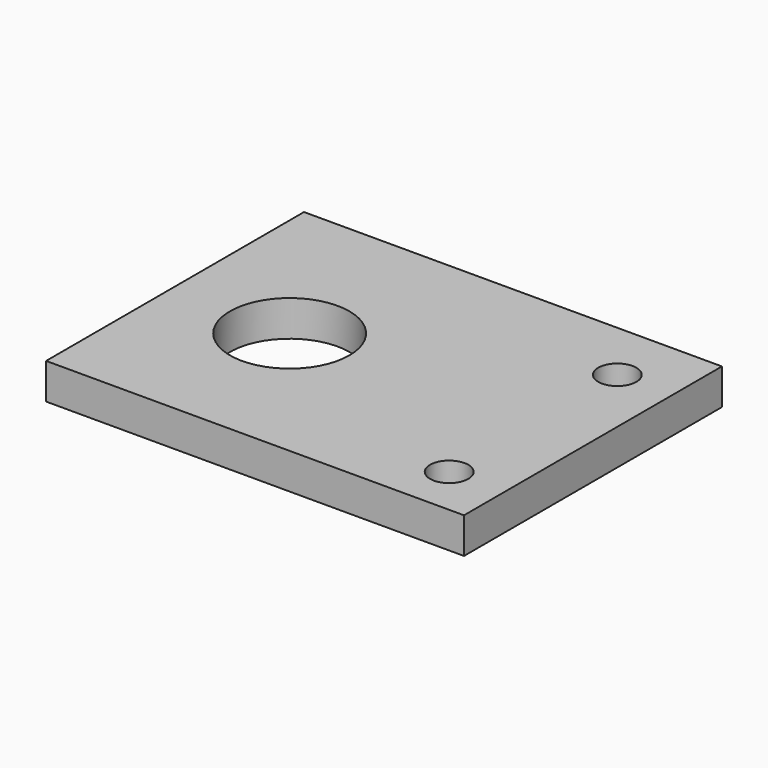
from build123d import *

# Parameters (mm, degrees)
CYLINDER030_R     = 1.6
CYLINDER030_DEPTH = 50
CYLINDER029_R     = 5
CYLINDER029_DEPTH = 22.5
CYLINDER031_R     = 1.6
CYLINDER031_DEPTH = 50
BOX019_W          = 35
BOX019_H          = 27
BOX019_DEPTH      = 3


with BuildPart() as cylinder030:
    # Cylinder030 → Cylinder030 (new body)
    with BuildSketch(Plane(origin=(20.4, 8.8, -22), x_dir=(1, 0, 0), z_dir=(0, 0, 1))):
        Circle(CYLINDER030_R)
    extrude(amount=CYLINDER030_DEPTH)


with BuildPart() as fusion034:
    # Cylinder029 → Cylinder029 (new body)
    with BuildSketch(Plane.XY.offset(-12)):
        Circle(CYLINDER029_R)
    extrude(amount=CYLINDER029_DEPTH)

    # Fusion034: union Cylinder030
    add(cylinder030.part)


with BuildPart() as motor_holes_y:
    # Cylinder031 → Cylinder031 (new body)
    with BuildSketch(Plane(origin=(20.4, -8.8, -22), x_dir=(1, 0, 0), z_dir=(0, 0, 1))):
        Circle(CYLINDER031_R)
    extrude(amount=CYLINDER031_DEPTH)

    # Fusion036: union Fusion034
    add(fusion034.part)


with BuildPart() as motor_spacer:
    # Box019 → Box019 (new body)
    with BuildSketch(Plane(origin=(-10, -13, 0), x_dir=(1, 0, 0), z_dir=(0, 0, 1))):
        with Locations((17.5, 13.5)):
            Rectangle(BOX019_W, BOX019_H)
    extrude(amount=BOX019_DEPTH)

    # Cut030: cut motor-holes-y
    add(motor_holes_y.part, mode=Mode.SUBTRACT)


solid = motor_spacer.part
